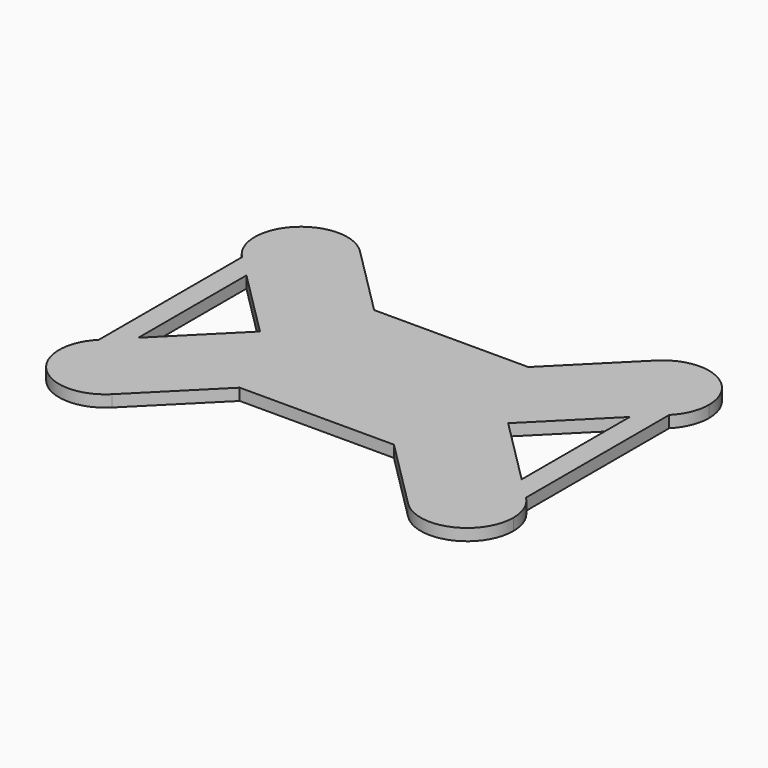
from build123d import *

# Parameters (mm, degrees)
F1_DEPTH = 2.54


with BuildPart() as f1:
    # F0 (on Top) → F1 (new body)
    with BuildSketch(Plane.XY):
        with BuildLine():
            ThreePointArc((-46.295959, 19.3986), (-35.355502, 17.222408), (-29.158231, 26.497279))
            ThreePointArc((-29.158231, 26.497279), (-29.922408, 30.339057), (-32.0986, 33.595959))
            ThreePointArc((-32.0986, 33.595959), (-46.295959, 33.595959), (-46.295959, 19.3986))
        make_face()
        with BuildLine():
            ThreePointArc((-32.0986, 33.595959), (-29.922408, 30.339057), (-29.158231, 26.497279))
            ThreePointArc((-29.158231, 26.497279), (-35.355502, 17.222408), (-46.295959, 19.3986))
            Line((-46.295959, 19.3986), (-46.295959, -19.3986))
            ThreePointArc((-46.295959, -19.3986), (-35.355502, -17.222408), (-29.158231, -26.497279))
            ThreePointArc((-29.158231, -26.497279), (-29.922408, -30.339057), (-32.0986, -33.595959))
            Line((-32.0986, -33.595959), (-16.711745, -18.209103))
            Line((-16.711745, -18.209103), (16.711745, -18.209103))
            Line((16.711745, -18.209103), (32.0986, -33.595959))
            ThreePointArc((32.0986, -33.595959), (32.0986, -19.3986), (46.295959, -19.3986))
            Line((46.295959, -19.3986), (46.295959, 19.3986))
            ThreePointArc((46.295959, 19.3986), (32.0986, 19.3986), (32.0986, 33.595959))
            Line((32.0986, 33.595959), (16.711745, 18.209103))
            Line((16.711745, 18.209103), (0, 18.209103))
            Line((0, 18.209103), (-16.711745, 18.209103))
            Line((-16.711745, 18.209103), (-32.0986, 33.595959))
        make_face()
        Polygon((-41.543757, -14.646398), (-41.543757, 14.646398), (-26.897359, 0), align=None, mode=Mode.SUBTRACT)
        Polygon((26.897359, 0), (41.543757, 14.646398), (41.543757, -14.646398), align=None, mode=Mode.SUBTRACT)
        with BuildLine():
            ThreePointArc((-29.158231, -26.497279), (-35.355502, -17.222408), (-46.295959, -19.3986))
            ThreePointArc((-46.295959, -19.3986), (-46.295959, -33.595959), (-32.0986, -33.595959))
            ThreePointArc((-32.0986, -33.595959), (-29.922408, -30.339057), (-29.158231, -26.497279))
        make_face()
        with BuildLine():
            ThreePointArc((49.236328, 26.497279), (43.039057, 35.772151), (32.0986, 33.595959))
            ThreePointArc((32.0986, 33.595959), (32.0986, 19.3986), (46.295959, 19.3986))
            ThreePointArc((46.295959, 19.3986), (48.472151, 22.655502), (49.236328, 26.497279))
        make_face()
        with BuildLine():
            ThreePointArc((46.295959, -19.3986), (32.0986, -19.3986), (32.0986, -33.595959))
            ThreePointArc((32.0986, -33.595959), (43.039057, -35.772151), (49.236328, -26.497279))
            ThreePointArc((49.236328, -26.497279), (48.472151, -22.655502), (46.295959, -19.3986))
        make_face()
    extrude(amount=F1_DEPTH)


solid = f1.part
